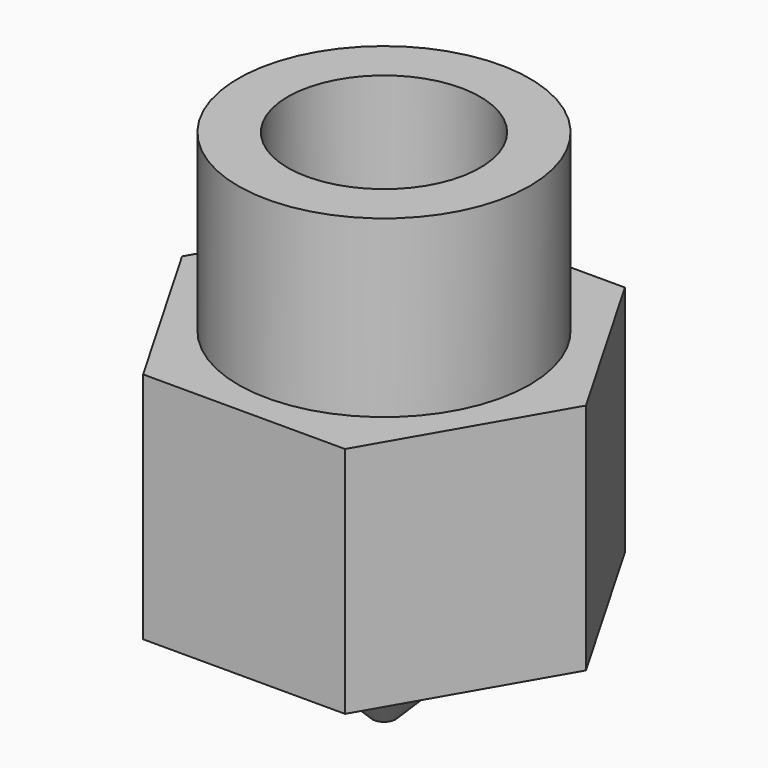
from build123d import *

# Parameters (mm, degrees)
F0_W     = 2.5
F0_H     = 3
F2_R     = 2.5
F3_DEPTH = 4
F7_D     = 3.3
F7_DEPTH = 3
F7_TIP   = 0.9914200214
F9_D     = 0.4


with BuildPart() as f1:
    # F0 (on Front) → F1 (revolve)
    with BuildSketch(Plane.XZ):
        with Locations((1.25, 1.5)):
            Rectangle(F0_W, F0_H)
    revolve(axis=Axis((0, 0, 1.5), (0, 0, 1)))

    # F2 (on face) → F3 (join)
    with BuildSketch(Plane(origin=(0, 0, 0), x_dir=(1, 0, 0), z_dir=(0, 0, -1))):
        Polygon((1.7320508076, 3), (-1.7320508076, 3), (-3.4641016151, 0), (-1.7320508076, -3), (1.7320508076, -3), (3.4641016151, 0), align=None)
        Circle(F2_R, mode=Mode.SUBTRACT)
        Circle(F2_R)
    extrude(amount=F3_DEPTH)

    # F4 (on Front) → F5 (revolve)
    with BuildSketch(Plane.XZ):
        Polygon((2, -4), (0, -4), (0, -6), align=None)
    revolve(axis=Axis((0, 0, -5), (0, 0, 1)))

    # F7
    with Locations(Plane.XY.offset(3)):
        with Locations((0, 0)):
            Hole(F7_D / 2, depth=F7_DEPTH)
            with Locations((0, 0, -(F7_DEPTH + F7_TIP / 2))):  # 118° drill point
                Cone(0, F7_D / 2, F7_TIP, mode=Mode.SUBTRACT)

    # F9 (through all)
    with Locations(Plane.XY.offset(3)):
        with Locations((0, 0)):
            Hole(F9_D / 2)


solid = f1.part
